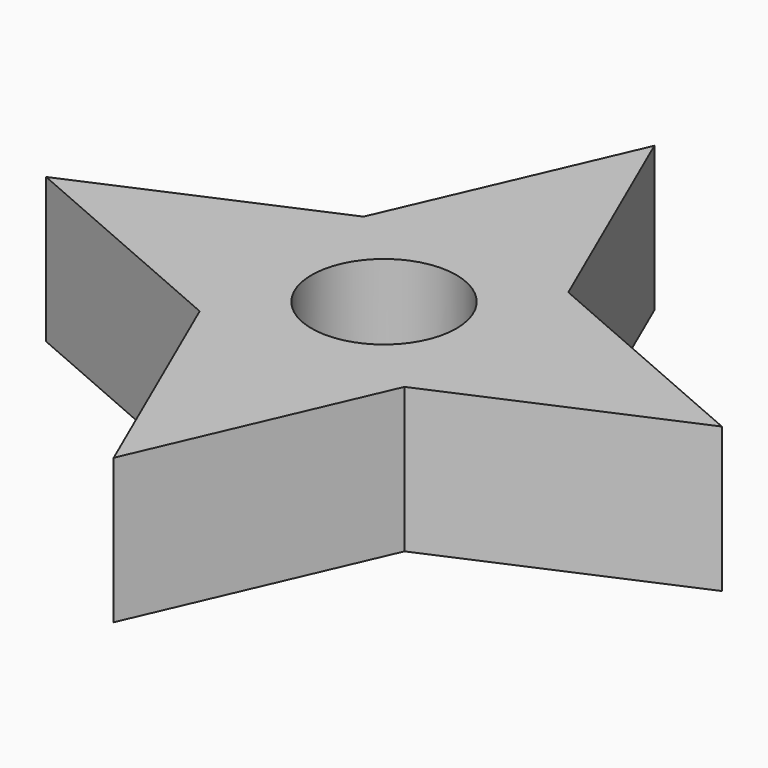
from build123d import *

# Parameters (mm, degrees)
F0_R     = 9.525
F1_DEPTH = 19.05


with BuildPart() as f1:
    # F0 (on Top) → F1 (new body)
    with BuildSketch(Plane.XY):
        Polygon((13.470384, 13.470384), (0, 44.45), (-13.470384, 13.470384), (-44.45, 0), (-13.470384, -13.470384), (0, -44.45), (13.470384, -13.470384), (44.45, 0), align=None)
        Circle(F0_R, mode=Mode.SUBTRACT)
    extrude(amount=F1_DEPTH)


solid = f1.part
